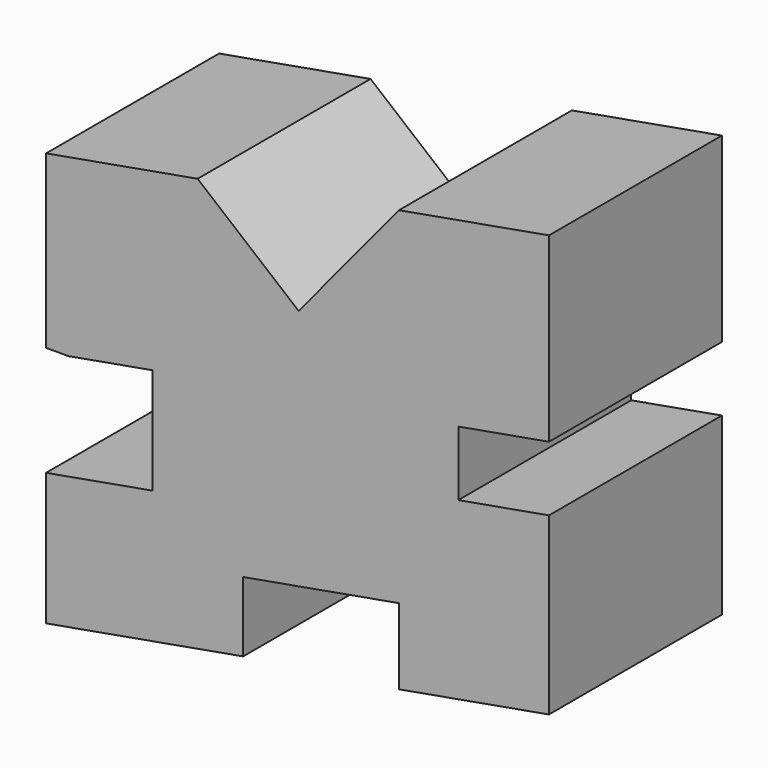
from build123d import *

# Parameters (mm, degrees)
F1_DEPTH = 25.4


with BuildPart() as f1:
    # F0 (on Front) → F1 (new body)
    with BuildSketch(Plane.XZ):
        Polygon((-11.871033, 19.325944), (-29.677585, 16.164143), (-29.677585, -3.957503), (-27.03958, -3.957503), (-17.166146, -2.204337), (-17.166146, -14.658906), (-29.677585, -16.880487), (-29.677585, -32.455448), (-6.521189, -28.343708), (-6.521189, -20.130862), (11.784194, -16.880487), (11.784194, -25.794348), (29.413831, -22.66396), (29.413831, -16.880487), (29.413831, -2.064731), (18.754167, -3.957503), (18.754167, 3.655637), (29.413831, 5.548409), (29.413831, 19.325944), (29.413831, 23.765696), (29.413831, 26.896084), (11.784194, 23.765696), (0, 9.511768), align=None)
    extrude(amount=F1_DEPTH)


solid = f1.part
